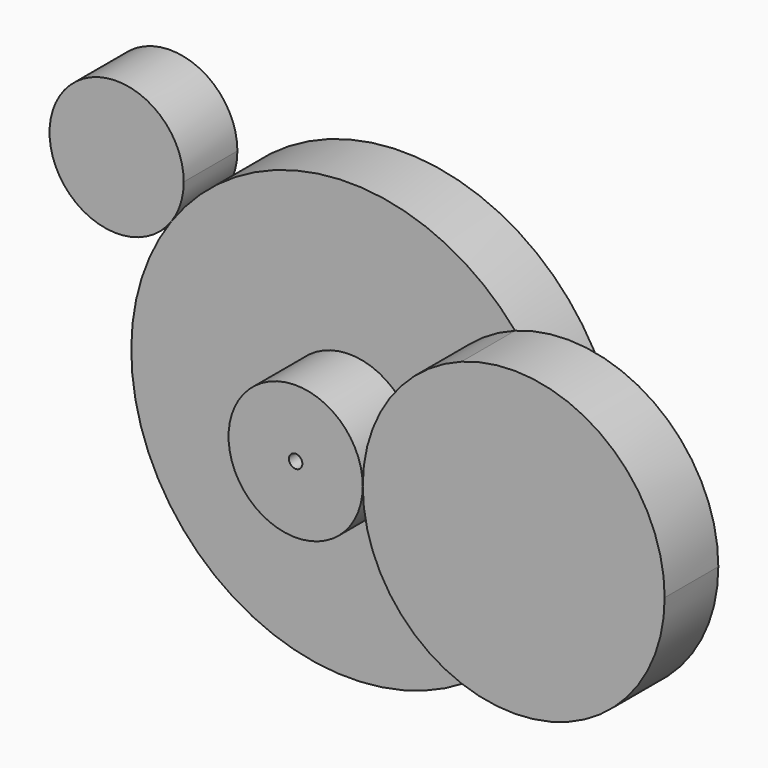
from build123d import *

# Parameters (mm, degrees)
F0_R     = 1.27
F1_DEPTH = 12.7
F2_R     = 12.7
F2_R_2   = 1.27
F3_DEPTH = 12.7
F4_DEPTH = 12.7


with BuildPart() as f1:
    # F0 (on Front) → F1 (new body)
    with BuildSketch(Plane.XZ):
        with BuildLine():
            ThreePointArc((-33.68141, 23.857666), (-12.518494, -39.330814), (41.275, 0))
            ThreePointArc((41.275, 0), (12.518494, 39.330814), (-33.68141, 23.857666))
        make_face()
        Circle(F0_R, mode=Mode.SUBTRACT)
        with BuildLine():
            ThreePointArc((-31.344922, 31.198486), (-56.14671, 35.05033), (-33.68141, 23.857666))
            ThreePointArc((-33.68141, 23.857666), (-31.943133, 27.346641), (-31.344922, 31.198486))
        make_face()
    extrude(amount=F1_DEPTH)

    # F2 (on face) → F3 (join)
    with BuildSketch(Plane.XZ.offset(12.7)):
        Circle(F2_R)
        Circle(F2_R_2, mode=Mode.SUBTRACT)
    extrude(amount=F3_DEPTH)


with BuildPart() as f4:
    # F2 (on face) → F4 (new body)
    with BuildSketch(Plane.XZ.offset(12.7)):
        with BuildLine():
            ThreePointArc((69.85, 0), (57.613381, 23.443292), (31.383654, 26.80843))
            ThreePointArc((31.383654, 26.80843), (38.723287, 14.2875), (41.275, 0))
            ThreePointArc((41.275, 0), (38.723287, -14.2875), (31.383654, -26.80843))
            ThreePointArc((31.383654, -26.80843), (57.613381, -23.443292), (69.85, 0))
        make_face()
        with BuildLine():
            ThreePointArc((31.383654, 26.80843), (17.831708, 16.338381), (12.7, 0))
            ThreePointArc((12.7, 0), (17.831708, -16.338381), (31.383654, -26.80843))
            ThreePointArc((31.383654, -26.80843), (38.723287, -14.2875), (41.275, 0))
            ThreePointArc((41.275, 0), (38.723287, 14.2875), (31.383654, 26.80843))
        make_face()
    extrude(amount=F4_DEPTH)


solid = Compound([f1.part, f4.part])
